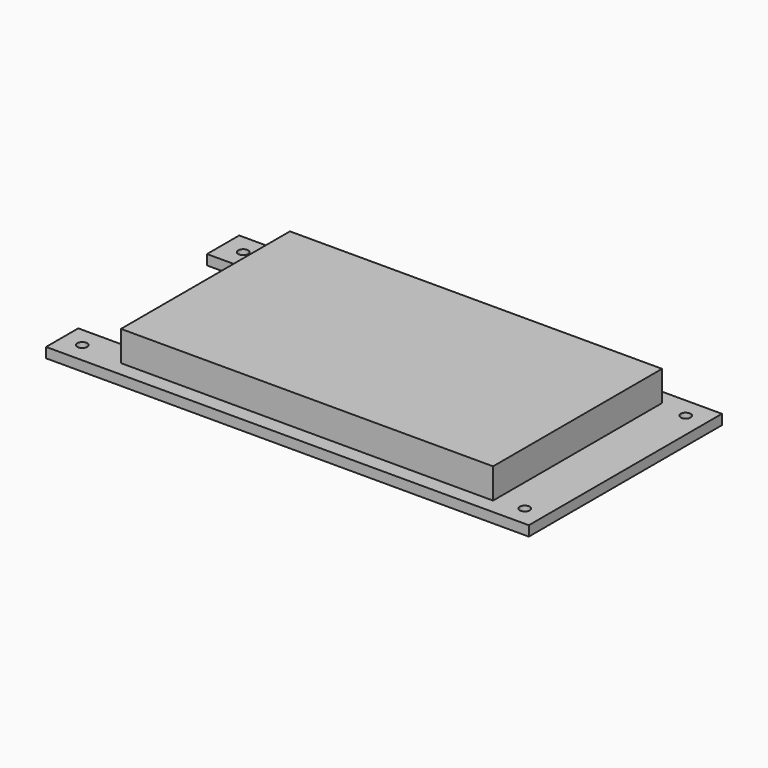
from build123d import *

# Parameters (mm, degrees)
F0_W          = 152.4
F0_H          = 76.2
F1_DEPTH      = 3.175
F2_W          = 117.475
F2_H          = 66.675
F3_DEPTH      = 9.525
F4_W          = 114.3
F4_H          = 63.5
F5_DEPTH      = 11.1125
F6_W          = 50.8
F6_H          = 9.525
F7_DEPTH      = 25.4
F7_DEPTH_BACK = 25.4
F8_R          = 1.5875
F9_DEPTH      = 25.4


with BuildPart() as f1:
    # F0 (on Top) → F1 (new body)
    with BuildSketch(Plane.XY):
        with Locations((-2.3664589537, 0)):
            Rectangle(F0_W, F0_H)
    extrude(amount=F1_DEPTH)

    # F2 (on face) → F3 (join)
    with BuildSketch(Plane.XY.offset(3.175)):
        Rectangle(F2_W, F2_H)
    extrude(amount=F3_DEPTH)

    # F4 (on face) → F5 (cut)
    with BuildSketch(Plane(origin=(0, 0, 0), x_dir=(1, 0, 0), z_dir=(0, 0, -1))):
        Rectangle(F4_W, F4_H)
    extrude(amount=-F5_DEPTH, mode=Mode.SUBTRACT)

    # F6 (on face) → F7 (cut, two sides)
    with BuildSketch(Plane(origin=(-58.7375, 0, 0), x_dir=(0, -1, 0), z_dir=(-1, 0, 0))) as f7_sk:
        with Locations((0, 4.7625)):
            Rectangle(F6_W, F6_H)
    extrude(amount=-F7_DEPTH, mode=Mode.SUBTRACT)
    extrude(f7_sk.sketch, amount=F7_DEPTH_BACK, mode=Mode.SUBTRACT)

    # F8 (on face) → F9 (cut)
    with BuildSketch(Plane.XY.offset(3.175)):
        with Locations((-72.2164589537, 31.75)):
            Circle(F8_R)
        with Locations((-72.2164589537, -31.75)):
            Circle(F8_R)
        with Locations((67.4835410463, 31.75)):
            Circle(F8_R)
        with Locations((67.4835410463, -31.75)):
            Circle(F8_R)
    extrude(amount=-F9_DEPTH, mode=Mode.SUBTRACT)


solid = f1.part
